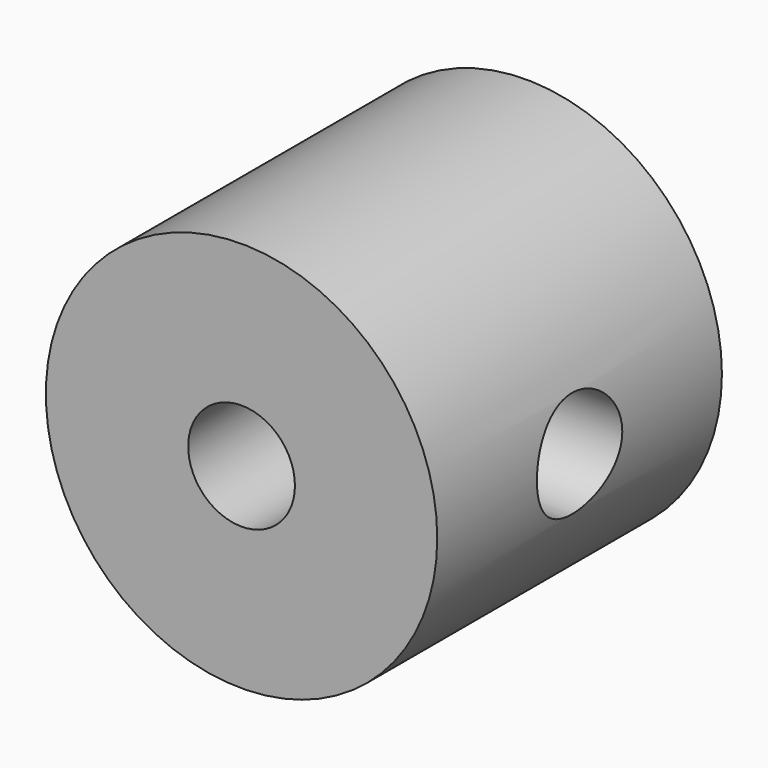
from build123d import *

# Parameters (mm, degrees)
F4_R     = 1.5
F5_DEPTH = 12.5


with BuildPart() as f1:
    # F0 (on Top) → F1 (revolve)
    with BuildSketch(Plane.XY):
        Polygon((1.5, 3.5), (1.5, 0), (5.5, 0), (5.5, 3.5), (5.5, 6.5), (5.5, 10), (1.5, 10), (1.5, 6.5), align=None)
    revolve(axis=Axis((0, 15, 0), (0, -1, 0)))

    # F4 (on Right) → F5 (cut, symmetric)
    with BuildSketch(Plane.YZ):
        with Locations((5, 0)):
            Circle(F4_R)
    extrude(amount=F5_DEPTH, both=True, mode=Mode.SUBTRACT)


solid = f1.part
